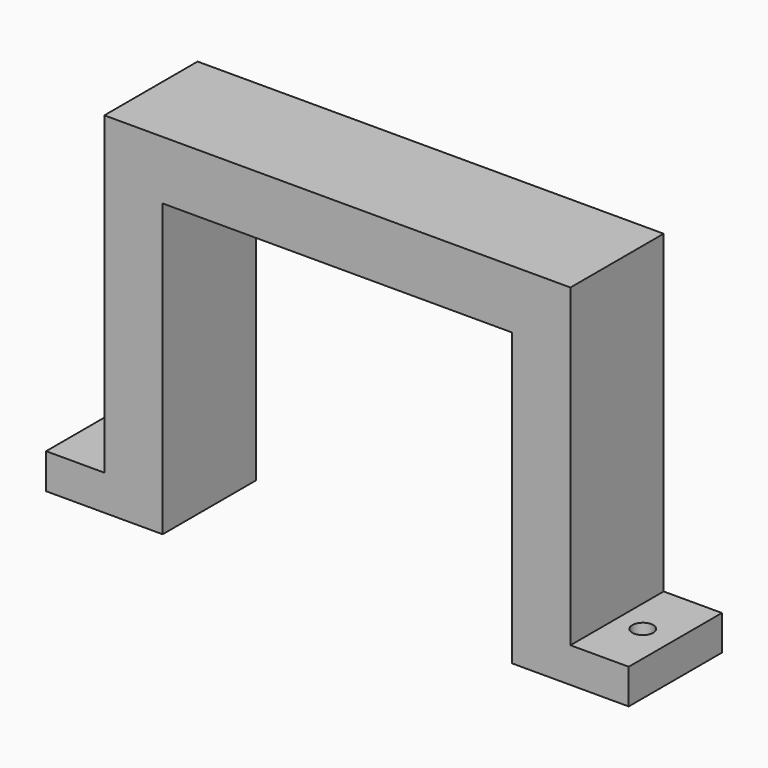
from build123d import *

# Parameters (mm, degrees)
F1_DEPTH = 25.4
F3_D     = 4.572
F5_D     = 4.572


with BuildPart() as f1:
    # F0 (on Front) → F1 (new body)
    with BuildSketch(Plane.XZ):
        Polygon((-45.351734, -7.193425), (-45.351734, -75.773425), (-58.051734, -75.773425), (-58.059905, -83.466448), (-32.651734, -83.466448), (-32.651734, -19.966448), (43.548266, -19.966448), (43.548266, -83.466448), (68.948266, -83.466448), (68.948266, -75.846448), (56.248266, -75.846448), (56.248266, -7.193425), align=None)
    extrude(amount=F1_DEPTH)

    # F3 (through all)
    with Locations(Plane.XY):
        with Locations((-52.30502, -12.795078)):
            Hole(F3_D / 2)

    # F5 (through all)
    with Locations(Plane.XY):
        with Locations((62.102944, -13.002886)):
            Hole(F5_D / 2)


solid = f1.part
